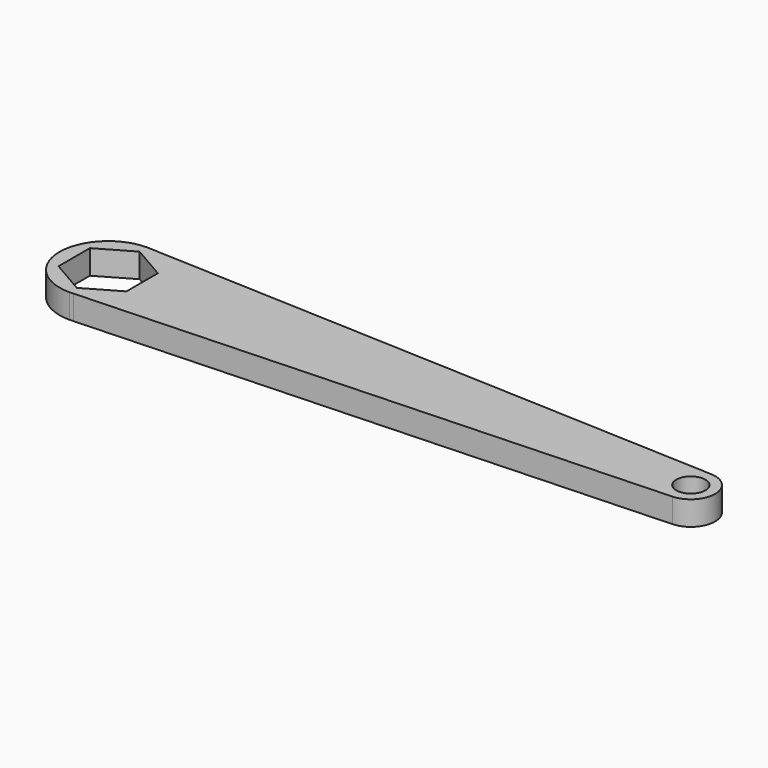
from build123d import *

# Parameters (mm, degrees)
F0_R     = 3
F1_DEPTH = 5


with BuildPart() as f1:
    # F0 (on Top) → F1 (new body)
    with BuildSketch(Plane.XY):
        with BuildLine():
            Line((120.207973, 4.995673), (0.831171, 9.965398))
            Line((0.831171, 9.965398), (0, 10))
            ThreePointArc((0, 10), (-10, 0), (0, -10))
            Line((0, -10), (0.831171, -9.965398))
            Line((0.831171, -9.965398), (120.207973, -4.995673))
            ThreePointArc((120.207973, -4.995673), (125, 0), (120.207973, 4.995673))
        make_face()
        Polygon((0, 8.082904), (7, 4.041452), (7, -4.041452), (0, -8.082904), (-7, -4.041452), (-7, 4.041452), align=None, mode=Mode.SUBTRACT)
        with Locations((120, 0)):
            Circle(F0_R, mode=Mode.SUBTRACT)
    extrude(amount=F1_DEPTH)


solid = f1.part
